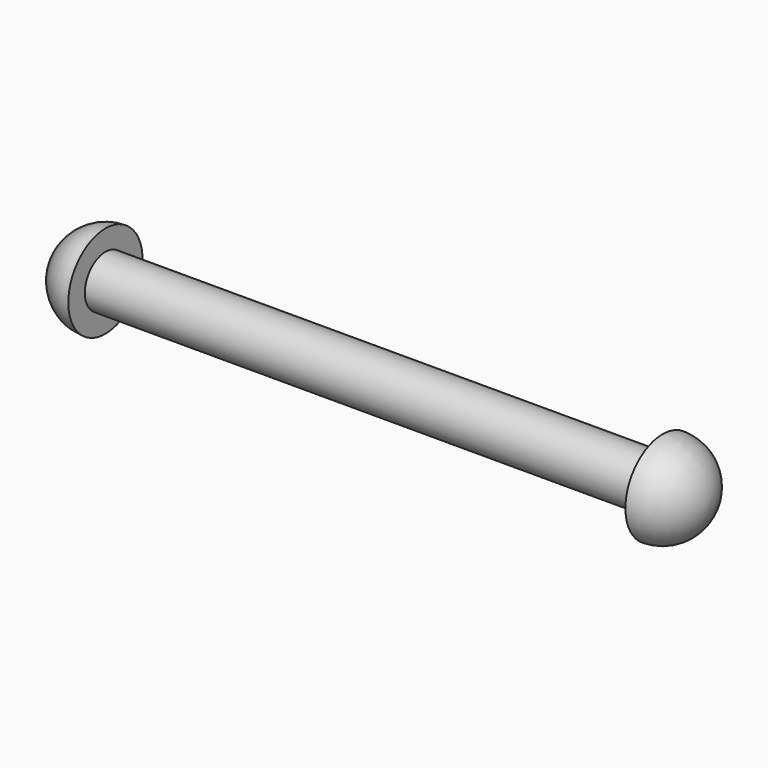
from build123d import *


with BuildPart() as f1:
    # F0 (on Front) → F1 (revolve)
    with BuildSketch(Plane.XZ):
        with BuildLine():
            Line((-52.361283, 9.909496), (-46.646283, 9.909496))
            Line((-46.646283, 9.909496), (21.933717, 9.909496))
            Line((21.933717, 9.909496), (27.648717, 9.909496))
            ThreePointArc((27.648717, 9.909496), (25.974832, 13.950611), (21.933717, 15.624496))
            Line((21.933717, 15.624496), (21.933717, 13.084496))
            Line((21.933717, 13.084496), (-46.646283, 13.084496))
            Line((-46.646283, 13.084496), (-46.646283, 15.624496))
            ThreePointArc((-46.646283, 15.624496), (-50.687398, 13.950611), (-52.361283, 9.909496))
        make_face()
    revolve(axis=Axis((-12.356283, 0, 9.909496), (1, 0, 0)))


solid = f1.part
